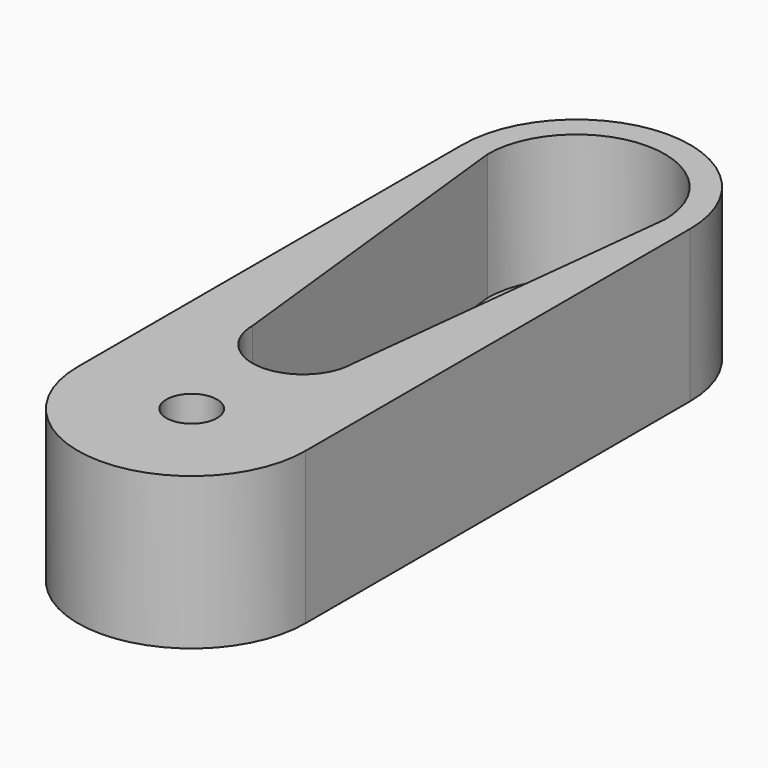
from build123d import *

# Parameters (mm, degrees)
SKETCH_R     = 1
PAD_DEPTH    = 6
POCKET_DEPTH = 5


with BuildPart() as part:
    # Sketch → Pad (new body)
    with BuildSketch(Plane.XY):
        with BuildLine():
            ThreePointArc((4.5, 9.5), (0, 14), (-4.5, 9.5))
            Line((-4.5, 9.5), (-4.5, -9.5))
            ThreePointArc((-4.5, -9.5), (0, -14), (4.5, -9.5))
            Line((4.5, -9.5), (4.5, 9.5))
        make_face()
        with Locations((0, 9.5)):
            Circle(SKETCH_R, mode=Mode.SUBTRACT)
        with Locations((0, -9.5)):
            Circle(SKETCH_R, mode=Mode.SUBTRACT)
    extrude(amount=PAD_DEPTH)

    # Sketch001 (on Face8 of Pad) → Pocket (cut)
    with BuildSketch(Plane.XY.offset(6)):
        with BuildLine():
            ThreePointArc((3.5, 9.5), (0, 13), (-3.5, 9.5))
            Line((-3.5, 9.5), (-2, -4))
            ThreePointArc((-2, -4), (0, -6), (2, -4))
            Line((3.5, 9.5), (2, -4))
        make_face()
    extrude(amount=-POCKET_DEPTH, mode=Mode.SUBTRACT)


solid = part.part
